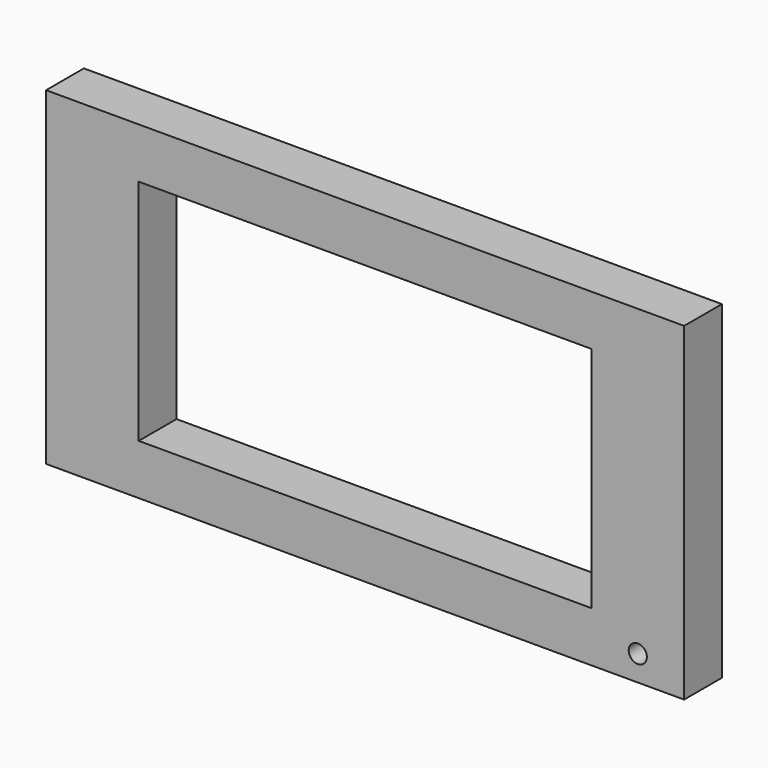
from build123d import *

# Parameters (mm, degrees)
SKETCH_W        = 35.12
SKETCH_H        = 18.11
PAD_DEPTH       = 2.6
SKETCH002_W     = 24.92
SKETCH002_H     = 12.56
POCKET_DEPTH    = 2.6
SKETCH003_R     = 0.5
SKETCH003_W     = 2.01
SKETCH003_H     = 3.5
POCKET001_DEPTH = 5


with BuildPart() as part:
    # Sketch → Pad (new body)
    with BuildSketch(Plane.XZ):
        with Locations((17.56, 9.055)):
            Rectangle(SKETCH_W, SKETCH_H)
    extrude(amount=PAD_DEPTH)

    # Sketch002 (on Face6 of Pad) → Pocket (cut)
    with BuildSketch(Plane.XZ.offset(2.6)):
        with Locations((17.56, 9.055)):
            Rectangle(SKETCH002_W, SKETCH002_H)
    extrude(amount=-POCKET_DEPTH, mode=Mode.SUBTRACT)

    # Sketch003 (on Face4 of Pocket) → Pocket001 (cut)
    with BuildSketch(Plane(origin=(0, 0, 0), x_dir=(1, 0, 0), z_dir=(0, 1, 0))):
        with Locations((32.57, -1.395)):
            Circle(SKETCH003_R)
        with Locations((27.953742, -8.544061)):
            Rectangle(SKETCH003_W, SKETCH003_H)
    extrude(amount=-POCKET001_DEPTH, mode=Mode.SUBTRACT)


solid = part.part
